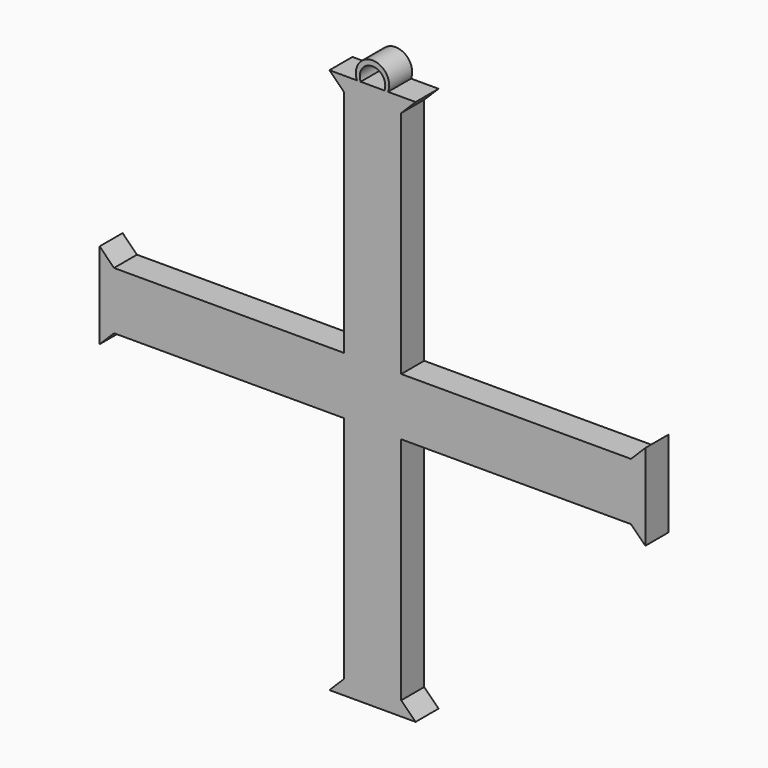
from build123d import *

# Parameters (mm, degrees)
F1_DEPTH = 5


with BuildPart() as f1:
    # F0 (on Front) → F1 (new body)
    with BuildSketch(Plane.XZ):
        Polygon((10, 10), (10, 50), (12.5, 52.5), (7.707753, 52.5), (7.063372, 52.5), (2.936628, 52.5), (2.292247, 52.5), (-2.5, 52.5), (0, 50), (0, 10), (-40, 10), (-42.5, 12.5), (-42.5, -2.5), (-40, 0), (0, 0), (0, -40), (10, -40), (10, 0), (50, 0), (52.5, -2.5), (52.5, 12.5), (50, 10), align=None)
        with BuildLine():
            Line((7.063372, 52.5), (7.707753, 52.5))
            ThreePointArc((7.707753, 52.5), (5, 56.455801), (2.292247, 52.5))
            Line((2.292247, 52.5), (2.936628, 52.5))
            ThreePointArc((2.936628, 52.5), (5, 55.540565), (7.063372, 52.5))
        make_face()
        Polygon((12.5, -42.5), (10, -40), (0, -40), (-2.5, -42.5), align=None)
    extrude(amount=F1_DEPTH)


solid = f1.part
